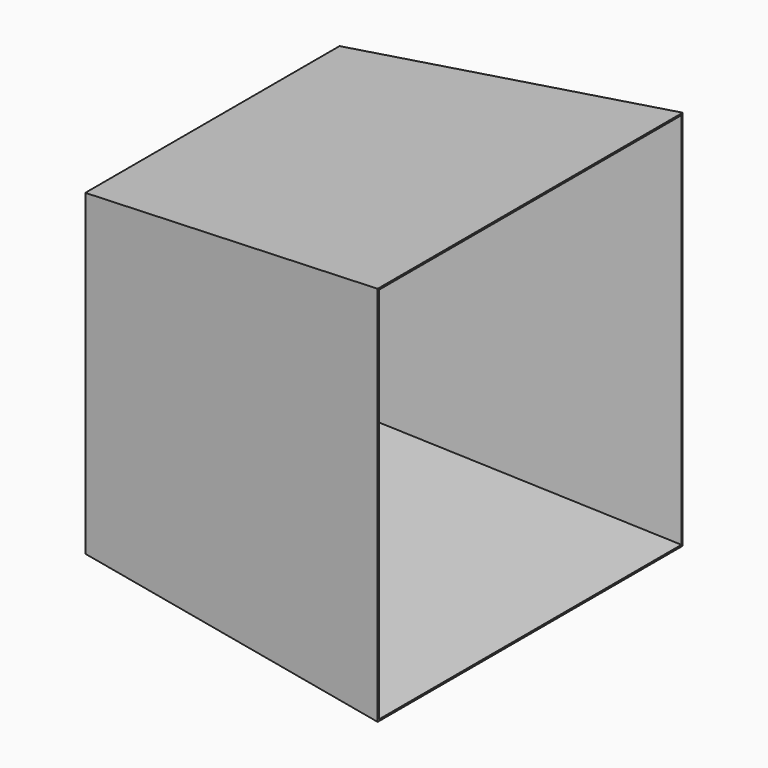
from build123d import *

# Parameters (mm, degrees)
F0_W = 200
F0_H = 200
F2_W = 240
F2_H = 240
F4_T = -1


with BuildPart() as f3:
    # F0 (on Right) → F3 section 0
    with BuildSketch(Plane.YZ):
        Rectangle(F0_W, F0_H)
    # F2 (on offset) → F3 section 1
    with BuildSketch(Plane.YZ.offset(200)):
        Rectangle(F2_W, F2_H)
    loft()

    # F4
    f4_openings = [f3.faces().sort_by_distance(p)[0] for p in [
        (200, 0, 0),
        (0, 0, 0),
    ]]
    offset(amount=F4_T, openings=f4_openings, kind=Kind.INTERSECTION)


solid = f3.part
